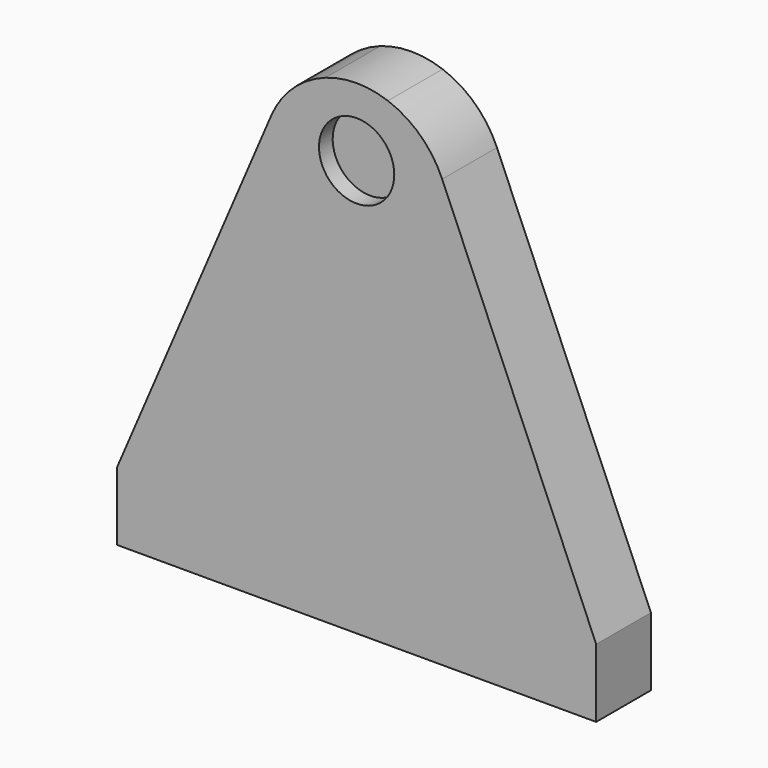
from build123d import *

# Parameters (mm, degrees)
F0_W     = 140
F0_H     = 20
F1_DEPTH = 20
F3_DEPTH = 5


with BuildPart() as f1:
    # F0 (on Front) → F1 (new body)
    with BuildSketch(Plane.XZ):
        with BuildLine():
            ThreePointArc((-60.8786071337, 140), (-70, 141.578780142), (-79.1213928663, 140))
            Line((-79.1213928663, 140), (-60.8786071337, 140))
        make_face()
        with Locations((-70, 10)):
            Rectangle(F0_W, F0_H)
        with BuildLine():
            Line((-60.8786071337, 140), (-79.1213928663, 140))
            ThreePointArc((-79.1213928663, 140), (-88.6364525268, 134.16805413), (-95, 125))
            ThreePointArc((-95, 125), (-75.3872103911, 87.8412774691), (-42.8612134521, 114.439993594))
            ThreePointArc((-42.8612134521, 114.439993594), (-43.401283875, 119.8272039851), (-45, 125))
            ThreePointArc((-45, 125), (-51.3635474732, 134.16805413), (-60.8786071337, 140))
        make_face()
        with BuildLine():
            Line((-95, 125), (-140, 20))
            Line((-140, 20), (0, 20))
            Line((0, 20), (-45, 125))
            ThreePointArc((-45, 125), (-43.401283875, 119.8272039851), (-42.8612134521, 114.439993594))
            ThreePointArc((-42.8612134521, 114.439993594), (-75.3872103911, 87.8412774691), (-95, 125))
        make_face()
    extrude(amount=F1_DEPTH)

    # F2 (on face) → F3 (cut)
    with BuildSketch(Plane.XZ.offset(20)):
        with BuildLine():
            ThreePointArc((-70, 132.578780142), (-77.7781745931, 113.8006055489), (-59, 121.578780142))
            ThreePointArc((-59, 121.578780142), (-62.2218254069, 129.356954735), (-70, 132.578780142))
        make_face()
    extrude(amount=-F3_DEPTH, mode=Mode.SUBTRACT)


solid = f1.part
